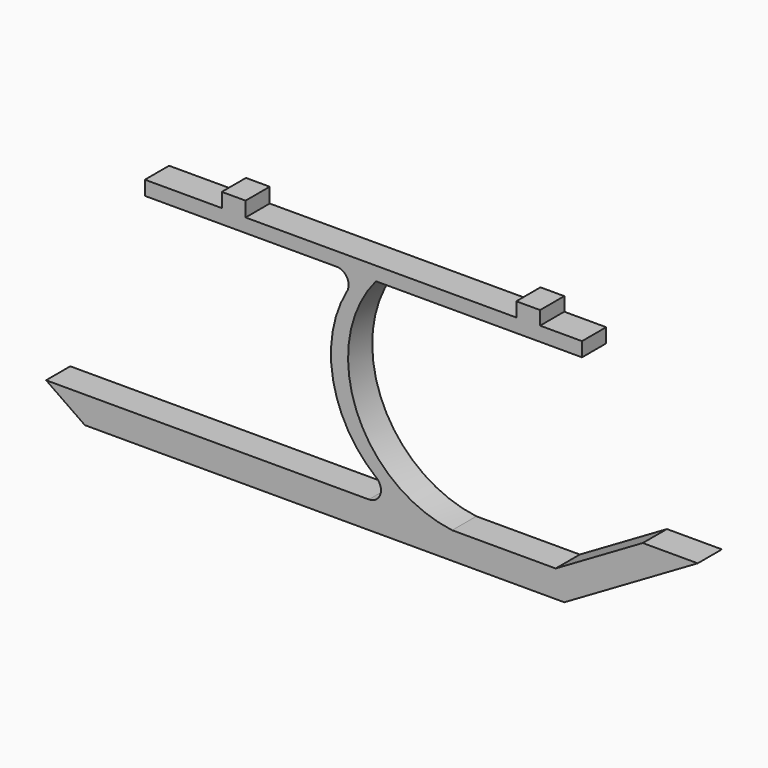
from build123d import *

# Parameters (mm, degrees)
F1_DEPTH = 6.35
F2_R     = 5.08


with BuildPart() as f1:
    # F0 (on Front) → F1 (new body, symmetric)
    with BuildSketch(Plane.XZ):
        with BuildLine():
            Line((-133.693446, -48.976308), (-117.367371, -60.302993))
            Line((-117.367371, -60.302993), (84.090313, -60.302993))
            Line((84.090313, -60.302993), (140.153468, -27.65083))
            Line((140.153468, -27.65083), (117.05051, -27.65083))
            Line((117.05051, -27.65083), (80.435061, -48.976308))
            Line((80.435061, -48.976308), (36.960306, -48.976308))
            ThreePointArc((36.960306, -48.976308), (-3.347569, -17.650078), (4.924222, 32.724866))
            Line((4.924222, 32.724866), (91.518199, 32.724866))
            Line((91.518199, 32.724866), (91.518199, 38.724854))
            Line((91.518199, 38.724854), (73.902904, 38.724854))
            Line((73.902904, 38.724854), (73.902904, 44.494075))
            Line((73.902904, 44.494075), (63.902899, 44.494075))
            Line((63.902899, 44.494075), (63.902899, 38.494087))
            Line((63.902899, 38.494087), (-49.86607, 38.494087))
            Line((-49.86607, 38.494087), (-49.86607, 44.724842))
            Line((-49.86607, 44.724842), (-59.866076, 44.724842))
            Line((-59.866076, 44.724842), (-59.866076, 38.724854))
            Line((-59.866076, 38.724854), (-92.173692, 38.724854))
            Line((-92.173692, 38.724854), (-92.173692, 32.724866))
            Line((-92.173692, 32.724866), (-1.852643, 32.724866))
            ThreePointArc((-1.852643, 32.724866), (-11.856696, -14.771434), (22.581745, -48.976308))
            Line((22.581745, -48.976308), (-133.693446, -48.976308))
        make_face()
        with BuildLine():
            Line((-133.693446, -48.976308), (-117.367371, -60.302993))
            Line((-117.367371, -60.302993), (84.090313, -60.302993))
            Line((84.090313, -60.302993), (140.153468, -27.65083))
            Line((140.153468, -27.65083), (117.05051, -27.65083))
            Line((117.05051, -27.65083), (80.435061, -48.976308))
            Line((80.435061, -48.976308), (36.960306, -48.976308))
            ThreePointArc((36.960306, -48.976308), (-3.347569, -17.650078), (4.924222, 32.724866))
            Line((4.924222, 32.724866), (91.518199, 32.724866))
            Line((91.518199, 32.724866), (91.518199, 38.724854))
            Line((91.518199, 38.724854), (73.902904, 38.724854))
            Line((73.902904, 38.724854), (73.902904, 44.494075))
            Line((73.902904, 44.494075), (63.902899, 44.494075))
            Line((63.902899, 44.494075), (63.902899, 38.494087))
            Line((63.902899, 38.494087), (-49.86607, 38.494087))
            Line((-49.86607, 38.494087), (-49.86607, 44.724842))
            Line((-49.86607, 44.724842), (-59.866076, 44.724842))
            Line((-59.866076, 44.724842), (-59.866076, 38.724854))
            Line((-59.866076, 38.724854), (-92.173692, 38.724854))
            Line((-92.173692, 38.724854), (-92.173692, 32.724866))
            Line((-92.173692, 32.724866), (-1.852643, 32.724866))
            ThreePointArc((-1.852643, 32.724866), (-11.856696, -14.771434), (22.581745, -48.976308))
            Line((22.581745, -48.976308), (-133.693446, -48.976308))
        make_face()
    extrude(amount=F1_DEPTH, both=True)

    # F2
    f2_edges = [f1.edges().sort_by_distance(p)[0] for p in [
        (22.581745, 0, -48.976308),
        (-1.852643, 0, 32.724866),
    ]]
    fillet(f2_edges, radius=F2_R)


solid = f1.part
